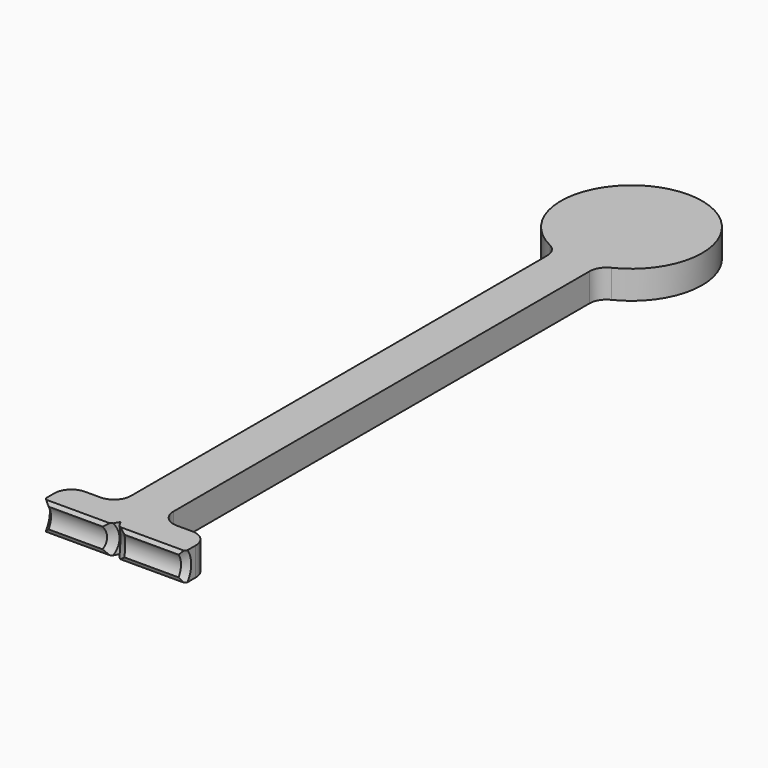
from build123d import *

# Parameters (mm, degrees)
PAD_DEPTH       = 5
SKETCH001_R     = 6.35
POCKET_DEPTH    = 50.001
POCKET001_DEPTH = 10.001
CHAMFER_SIZE    = 2
FILLET_R        = 6


with BuildPart() as part:
    # Sketch → Pad (new body, symmetric)
    with BuildSketch(Plane.XY):
        with BuildLine():
            ThreePointArc((7.5, 204.15152), (0, 253), (-7.5, 204.15152))
            Line((-7.5, 204.15152), (-7.5, 10))
            Line((-25, 10), (-7.5, 10))
            Line((-25, -5), (-25, 10))
            Line((25, -5), (-25, -5))
            Line((25, 10), (25, -5))
            Line((7.5, 10), (25, 10))
            Line((7.5, 204.15152), (7.5, 10))
        make_face()
    extrude(amount=PAD_DEPTH, both=True)

    # Sketch001 → Pocket (cut, through all)
    with BuildSketch(Plane(origin=(-25, 0, 0), x_dir=(0, -1, 0), z_dir=(-1, 0, 0))):
        with Locations((6.35, 0)):
            Circle(SKETCH001_R)
    extrude(amount=-POCKET_DEPTH, mode=Mode.SUBTRACT)

    # Sketch002 → Pocket001 (cut, through all)
    with BuildSketch(Plane.XY.offset(5)):
        Polygon((0, 2), (-10, -15.320508), (10, -15.320508), align=None)
    extrude(amount=-POCKET001_DEPTH, mode=Mode.SUBTRACT)

    # Chamfer
    chamfer_edges = [part.edges().sort_by_distance(p)[0] for p in [
        (13.780448, -2.435603, 5),
        (-13.780448, -2.435603, 5),
        (-25, 0, 0),
        (-1.154701, 0, 0),
        (1.154701, 0, 0),
        (25, 0, 0),
        (13.780448, -2.435603, -5),
        (-13.780448, -2.435603, -5),
    ]]
    chamfer(chamfer_edges, length=CHAMFER_SIZE)

    # Fillet
    fillet_edges = [part.edges().sort_by_distance(p)[0] for p in [
        (25, 10, 0),
        (7.5, 10, 0),
        (-7.5, 10, 0),
        (-25, 10, 0),
        (7.5, 204.15152, 0),
        (-7.5, 204.15152, 0),
    ]]
    fillet(fillet_edges, radius=FILLET_R)


solid = part.part
